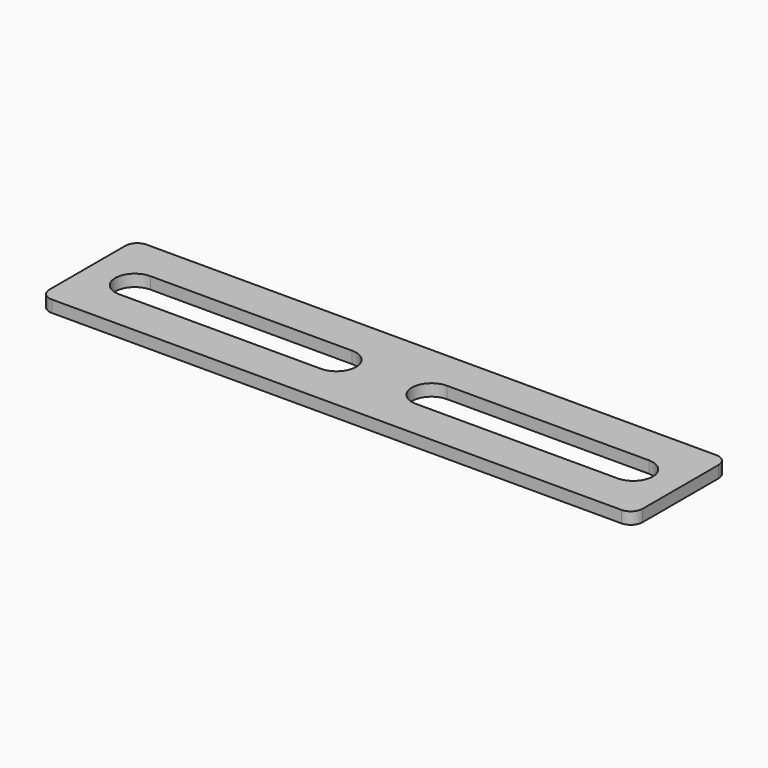
from build123d import *

# Parameters (mm, degrees)
F0_W     = 50
F0_H     = 10
F1_DEPTH = 1
F3_DEPTH = 25
F4_R     = 1


with BuildPart() as f1:
    # F0 (on Top) → F1 (new body)
    with BuildSketch(Plane.XY):
        with Locations((25, 5)):
            Rectangle(F0_W, F0_H)
    extrude(amount=F1_DEPTH)

    # F2 (on face) → F3 (cut)
    with BuildSketch(Plane.XY.offset(1)):
        with BuildLine():
            Line((21, 6.65), (4, 6.65))
            ThreePointArc((4, 6.65), (2.35, 5), (4, 3.35))
            Line((4, 3.35), (21, 3.35))
            ThreePointArc((21, 3.35), (22.65, 5), (21, 6.65))
        make_face()
        with BuildLine():
            ThreePointArc((29, 6.65), (27.35, 5), (29, 3.35))
            Line((29, 3.35), (46, 3.35))
            ThreePointArc((46, 3.35), (47.65, 5), (46, 6.65))
            Line((46, 6.65), (29, 6.65))
        make_face()
    extrude(amount=-F3_DEPTH, mode=Mode.SUBTRACT)

    # F4
    f4_edges = [f1.edges().sort_by_distance(p)[0] for p in [
        (50, 0, 0.5),
        (50, 10, 0.5),
        (0, 10, 0.5),
        (0, 0, 0.5),
    ]]
    fillet(f4_edges, radius=F4_R)


solid = f1.part
